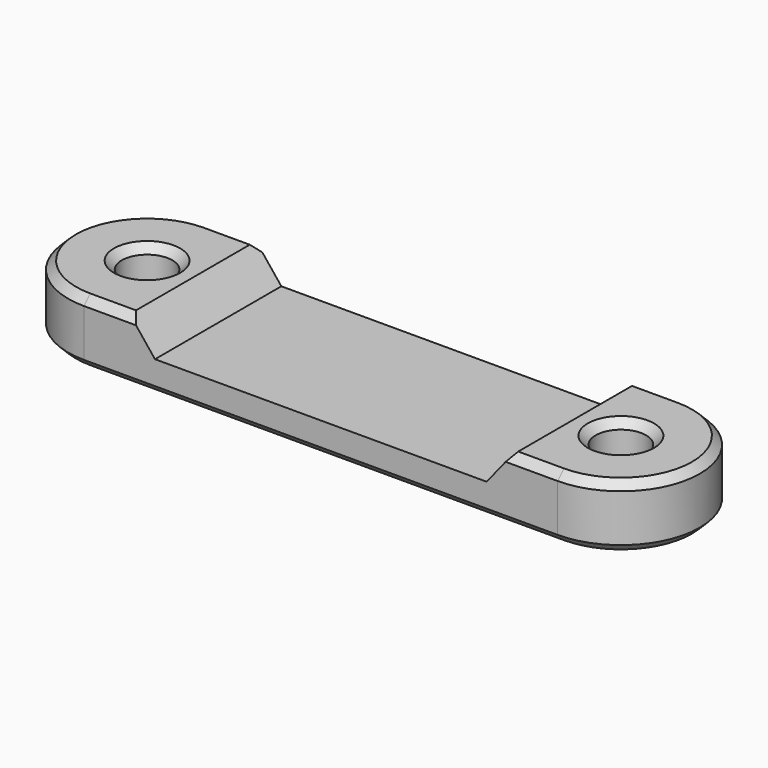
from build123d import *

# Parameters (mm, degrees)
SKETCH_R     = 1.6
PAD_DEPTH    = 4
CHAMFER_SIZE = 0.5
POCKET_DEPTH = 10.001


with BuildPart() as part:
    # Sketch → Pad (new body)
    with BuildSketch(Plane.XY):
        with BuildLine():
            ThreePointArc((-15, 5), (-20, 0), (-15, -5))
            Line((-15, -5), (15, -5))
            ThreePointArc((15, -5), (20, 0), (15, 5))
            Line((-15, 5), (15, 5))
        make_face()
        with Locations((-15, 0)):
            Circle(SKETCH_R, mode=Mode.SUBTRACT)
        with Locations((15, 0)):
            Circle(SKETCH_R, mode=Mode.SUBTRACT)
    extrude(amount=PAD_DEPTH)

    # Chamfer
    chamfer_edges = [part.edges().sort_by_distance(p)[0] for p in [
        (-20, 0, 4),
        (0, -5, 4),
        (20, 0, 4),
        (0, 5, 4),
        (13.4, 0, 4),
        (-16.6, 0, 4),
        (-20, 0, 0),
        (0, -5, 0),
        (20, 0, 0),
        (0, 5, 0),
        (13.4, 0, 0),
        (-16.6, 0, 0),
    ]]
    chamfer(chamfer_edges, length=CHAMFER_SIZE)

    # Sketch001 → Pocket (cut, through all)
    with BuildSketch(Plane.XZ.offset(5)):
        Polygon((-12.5, 4.5), (-10.5, 2), (10.5, 2), (12.5, 4.5), align=None)
    extrude(amount=-POCKET_DEPTH, mode=Mode.SUBTRACT)


solid = part.part
